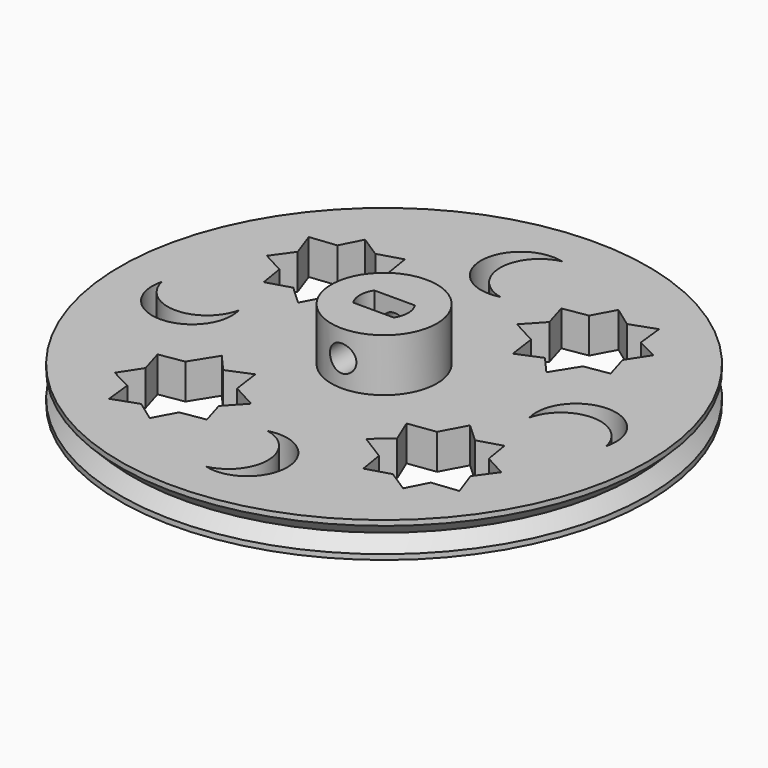
from build123d import *

# Parameters (mm, degrees)
F0_R      = 30
F1_DEPTH  = 4
F2_R      = 6
F3_DEPTH  = 6
F4_R      = 1.5
F5_DEPTH  = 9.95
F6_W      = 4.6
F6_H      = 3
F7_DEPTH  = 9.4
F9_DEPTH  = 25
F11_DEPTH = 25


with BuildPart() as f1:
    # F0 (on Top) → F1 (new body)
    with BuildSketch(Plane.XY):
        Circle(F0_R)
    extrude(amount=F1_DEPTH)

    # F2 (on face) → F3 (join)
    with BuildSketch(Plane.XY.offset(4)):
        Circle(F2_R)
    extrude(amount=F3_DEPTH)

    # F4 (on Front) → F5 (cut, symmetric)
    with BuildSketch(Plane.XZ):
        with Locations((0, 7)):
            Circle(F4_R)
    extrude(amount=F5_DEPTH, both=True, mode=Mode.SUBTRACT)

    # F6 (on face) → F7 (cut)
    with BuildSketch(Plane.XY.offset(10)):
        Rectangle(F6_W, F6_H)
        with BuildLine():
            ThreePointArc((2.3, -1.5), (2.7459060435, 0), (2.3, 1.5))
            Line((2.3, 1.5), (2.3, -1.5))
        make_face()
        with BuildLine():
            Line((-2.3, -1.5), (-2.3, 1.5))
            ThreePointArc((-2.3, 1.5), (-2.7540939565, 0), (-2.3, -1.5))
        make_face()
    extrude(amount=-F7_DEPTH, mode=Mode.SUBTRACT)

    # F8 (on face) → F9 (cut)
    with BuildSketch(Plane.XY.offset(4)):
        with BuildLine():
            ThreePointArc((0, 16.5074747056), (-3.5121658528, 20.8878368139), (0, 25.2681989223))
            ThreePointArc((0, 25.2681989223), (-5.6994366386, 20.8878368139), (0, 16.5074747056))
        make_face()
        with BuildLine():
            ThreePointArc((-16.5074747056, 0), (-20.8878368139, -3.5121658528), (-25.2681989223, 0))
            ThreePointArc((-25.2681989223, 0), (-20.8878368139, -5.6994366386), (-16.5074747056, 0))
        make_face()
        with BuildLine():
            ThreePointArc((0, -16.5074747056), (3.5121658528, -20.8878368139), (0, -25.2681989223))
            ThreePointArc((0, -25.2681989223), (5.6994366386, -20.8878368139), (0, -16.5074747056))
        make_face()
        with BuildLine():
            ThreePointArc((16.5074747056, 0), (20.8878368139, 3.5121658528), (25.2681989223, 0))
            ThreePointArc((25.2681989223, 0), (20.8878368139, 5.6994366386), (16.5074747056, 0))
        make_face()
    extrude(amount=-F9_DEPTH, mode=Mode.SUBTRACT)

    # F10 (on face) → F11 (cut)
    with BuildSketch(Plane.XY.offset(4)):
        with BuildLine():
            ThreePointArc((-9.8298114426, 10.4183598849), (-9.7788159618, 10.8230928332), (-9.7617778379, 11.2306698208))
            ThreePointArc((-9.7617778379, 11.2306698208), (-9.9932757594, 12.7164090182), (-10.6658213511, 14.0612862161))
            Line((-10.6658213511, 14.0612862161), (-9.8298114426, 10.4183598849))
        make_face()
        with BuildLine():
            ThreePointArc((-10.6658213511, 14.0612862161), (-9.9932757594, 12.7164090182), (-9.7617778379, 11.2306698208))
            ThreePointArc((-9.7617778379, 11.2306698208), (-9.7788159618, 10.8230928332), (-9.8298114426, 10.4183598849))
            Line((-9.8298114426, 10.4183598849), (-7.759351705, 12.2398230505))
            Line((-7.759351705, 12.2398230505), (-10.6658213511, 14.0612862161))
        make_face()
        with BuildLine():
            Line((-13.8329075388, 16.0460758528), (-10.6658213511, 14.0612862161))
            ThreePointArc((-10.6658213511, 14.0612862161), (-12.0519648423, 15.3686673401), (-13.8329075388, 16.0460758528))
        make_face()
        Polygon((-9.8298114426, 10.4183598849), (-10.6658213511, 14.0612862161), (-13.8329075388, 16.0460758528), (-17.47583387, 15.2100659443), (-19.4606235067, 12.0429797567), (-18.6246135982, 8.4000534254), (-15.4575274105, 6.4152637887), (-11.8146010793, 7.2512736973), align=None)
        with BuildLine():
            ThreePointArc((-13.8329075388, 16.0460758528), (-12.0519648423, 15.3686673401), (-10.6658213511, 14.0612862161))
            Line((-10.6658213511, 14.0612862161), (-11.120263847, 16.8553626042))
            Line((-11.120263847, 16.8553626042), (-13.8329075388, 16.0460758528))
        make_face()
        with BuildLine():
            Line((-8.6883150478, 7.680528209), (-9.8298114426, 10.4183598849))
            ThreePointArc((-9.8298114426, 10.4183598849), (-10.5072199553, 8.6374171884), (-11.8146010793, 7.2512736973))
            Line((-11.8146010793, 7.2512736973), (-8.6883150478, 7.680528209))
        make_face()
        with BuildLine():
            ThreePointArc((-11.8146010793, 7.2512736973), (-10.5072199553, 8.6374171884), (-9.8298114426, 10.4183598849))
            Line((-9.8298114426, 10.4183598849), (-11.8146010793, 7.2512736973))
        make_face()
        with BuildLine():
            Line((-17.47583387, 15.2100659443), (-13.8329075388, 16.0460758528))
            ThreePointArc((-13.8329075388, 16.0460758528), (-15.7375170594, 15.9903824489), (-17.47583387, 15.2100659443))
        make_face()
        with BuildLine():
            ThreePointArc((-17.47583387, 15.2100659443), (-15.7375170594, 15.9903824489), (-13.8329075388, 16.0460758528))
            Line((-13.8329075388, 16.0460758528), (-16.2455738647, 17.609721433))
            Line((-16.2455738647, 17.609721433), (-17.47583387, 15.2100659443))
        make_face()
        with BuildLine():
            Line((-13.3300706432, 4.4496803728), (-11.8146010793, 7.2512736973))
            ThreePointArc((-11.8146010793, 7.2512736973), (-13.5529178899, 6.4709571926), (-15.4575274105, 6.4152637887))
            Line((-15.4575274105, 6.4152637887), (-13.3300706432, 4.4496803728))
        make_face()
        with BuildLine():
            ThreePointArc((-15.4575274105, 6.4152637887), (-13.5529178899, 6.4709571926), (-11.8146010793, 7.2512736973))
            Line((-11.8146010793, 7.2512736973), (-15.4575274105, 6.4152637887))
        make_face()
        with BuildLine():
            Line((-19.4606235067, 12.0429797567), (-17.47583387, 15.2100659443))
            ThreePointArc((-17.47583387, 15.2100659443), (-18.783214994, 13.8239224532), (-19.4606235067, 12.0429797567))
        make_face()
        with BuildLine():
            ThreePointArc((-19.4606235067, 12.0429797567), (-18.783214994, 13.8239224532), (-17.47583387, 15.2100659443))
            Line((-17.47583387, 15.2100659443), (-20.4682286884, 14.8799081511))
            Line((-20.4682286884, 14.8799081511), (-19.4606235067, 12.0429797567))
        make_face()
        with BuildLine():
            Line((-18.1701711023, 5.6059770373), (-15.4575274105, 6.4152637887))
            ThreePointArc((-15.4575274105, 6.4152637887), (-17.2384701071, 7.0926723014), (-18.6246135982, 8.4000534254))
            Line((-18.6246135982, 8.4000534254), (-18.1701711023, 5.6059770373))
        make_face()
        with BuildLine():
            ThreePointArc((-18.6246135982, 8.4000534254), (-17.2384701071, 7.0926723014), (-15.4575274105, 6.4152637887))
            Line((-15.4575274105, 6.4152637887), (-18.6246135982, 8.4000534254))
        make_face()
        with BuildLine():
            Line((-18.6246135982, 8.4000534254), (-19.4606235067, 12.0429797567))
            ThreePointArc((-19.4606235067, 12.0429797567), (-19.4049301028, 10.138370236), (-18.6246135982, 8.4000534254))
        make_face()
        with BuildLine():
            ThreePointArc((-18.6246135982, 8.4000534254), (-19.4049301028, 10.138370236), (-19.4606235067, 12.0429797567))
            Line((-19.4606235067, 12.0429797567), (-21.1133740596, 9.7463018969))
            Line((-21.1133740596, 9.7463018969), (-18.6246135982, 8.4000534254))
        make_face()
        Polygon((-14.8799081511, -20.4682286884), (-12.0429797567, -19.4606235067), (-9.7463018969, -21.1133740596), (-8.4000534254, -18.6246135982), (-5.6059770373, -18.1701711023), (-6.4152637887, -15.4575274105), (-4.4496803728, -13.3300706432), (-7.2512736973, -11.8146010793), (-7.680528209, -8.6883150478), (-10.4183598849, -9.8298114426), (-12.2398230505, -7.759351705), (-14.0612862161, -10.6658213511), (-16.8553626042, -11.120263847), (-16.0460758528, -13.8329075388), (-17.609721433, -16.2455738647), (-15.2100659443, -17.47583387), align=None)
        Polygon((20.4682286884, -14.8799081511), (19.4606235067, -12.0429797567), (21.1133740596, -9.7463018969), (18.6246135982, -8.4000534254), (18.1701711023, -5.6059770373), (15.4575274105, -6.4152637887), (13.3300706432, -4.4496803728), (11.8146010793, -7.2512736973), (8.6883150478, -7.680528209), (9.8298114426, -10.4183598849), (7.759351705, -12.2398230505), (10.6658213511, -14.0612862161), (11.120263847, -16.8553626042), (13.8329075388, -16.0460758528), (16.2455738647, -17.609721433), (17.47583387, -15.2100659443), align=None)
        Polygon((14.8799081511, 20.4682286884), (12.0429797567, 19.4606235067), (9.7463018969, 21.1133740596), (8.4000534254, 18.6246135982), (5.6059770373, 18.1701711023), (6.4152637887, 15.4575274105), (4.4496803728, 13.3300706432), (7.2512736973, 11.8146010793), (7.680528209, 8.6883150478), (10.4183598849, 9.8298114426), (12.2398230505, 7.759351705), (14.0612862161, 10.6658213511), (16.8553626042, 11.120263847), (16.0460758528, 13.8329075388), (17.609721433, 16.2455738647), (15.2100659443, 17.47583387), align=None)
    extrude(amount=-F11_DEPTH, mode=Mode.SUBTRACT)

    # F12 (on Front) → F13 (revolve, cut)
    with BuildSketch(Plane.XZ):
        Polygon((30, 0.5857864376), (30, 3.4142135624), (28.5857864376, 2), align=None)
    revolve(axis=Axis((0, 0, 3.4037481528), (0, 0, 1)), mode=Mode.SUBTRACT)


solid = f1.part
